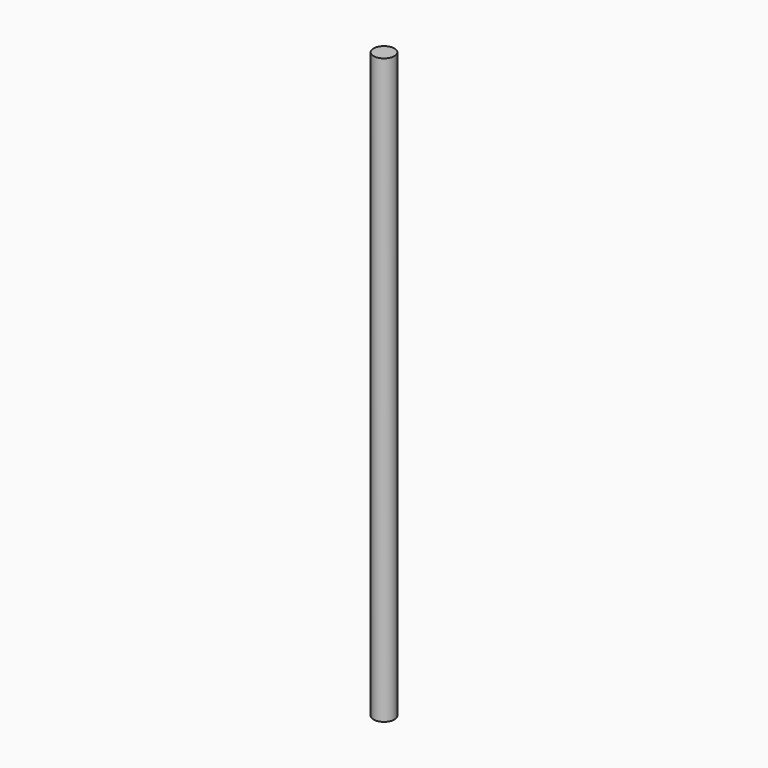
from build123d import *

# Parameters (mm, degrees)
SKETCH_R  = 2.5
PAD_DEPTH = 140


with BuildPart() as part:
    # Sketch → Pad (new body)
    with BuildSketch(Plane.XY):
        Circle(SKETCH_R)
    extrude(amount=PAD_DEPTH)


solid = part.part
